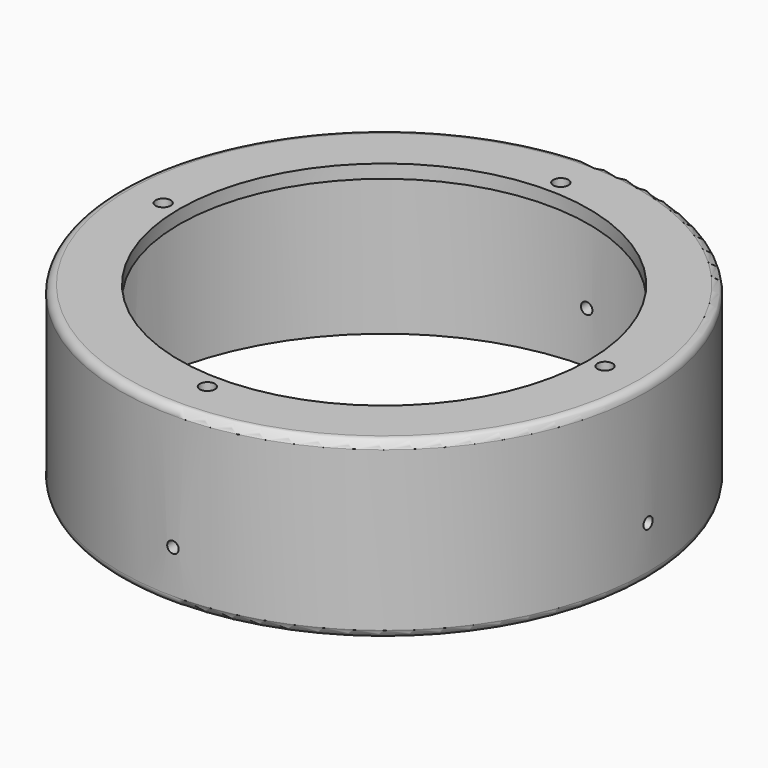
from build123d import *

# Parameters (mm, degrees)
SKETCH044_R       = 2.8
EXTRUDE026_DEPTH  = 20
CYLINDER131_R     = 2.13
CYLINDER131_DEPTH = 300
CYLINDER132_R     = 2.13
CYLINDER132_DEPTH = 300
TUBE004_R         = 98
TUBE004_R_2       = 94
TUBE004_DEPTH     = 65
SKETCH042_R       = 98
SKETCH042_R_2     = 76
EXTRUDE024_DEPTH  = 5
FILLET002_R       = 3


with BuildPart() as m4heatsetvercuts001:
    # Sketch044 → Extrude026 (new body)
    with BuildSketch(Plane.XY):
        with Locations((0, -68)):
            Circle(SKETCH044_R)
        with Locations((82, -150)):
            Circle(SKETCH044_R)
        with Locations((0, -232)):
            Circle(SKETCH044_R)
        with Locations((-82, -150)):
            Circle(SKETCH044_R)
    extrude(amount=EXTRUDE026_DEPTH)


with BuildPart() as m4heatsetvercuts001_1:
    # Extrude026 placement: moved
    add(m4heatsetvercuts001.part.moved(Location((0, 0, -193))))


with BuildPart() as cylinder131:
    # Cylinder131 → Cylinder131 (new body)
    with BuildSketch(Plane(origin=(0, 0, 90), x_dir=(1, 0, 0), z_dir=(0, -1, 0))):
        Circle(CYLINDER131_R)
    extrude(amount=CYLINDER131_DEPTH)


with BuildPart() as m4cuts009:
    # Cylinder132 → Cylinder132 (new body)
    with BuildSketch(Plane(origin=(-150, -150, 90), x_dir=(0, 1, 0), z_dir=(1, 0, 0))):
        Circle(CYLINDER132_R)
    extrude(amount=CYLINDER132_DEPTH)

    # Fusion084: union Cylinder131
    add(cylinder131.part)


with BuildPart() as m4cuts009_1:
    # Fusion084 placement: moved
    add(m4cuts009.part.moved(Location((0, 0, -321))))


with BuildPart() as tube004:
    # Tube004 → Tube004 (new body)
    with BuildSketch(Plane(origin=(0, -150, -125), x_dir=(1, 0, 0), z_dir=(0, 0, 1))):
        Circle(TUBE004_R)
        Circle(TUBE004_R_2, mode=Mode.SUBTRACT)
    extrude(amount=TUBE004_DEPTH)


with BuildPart() as level4to5s:
    # Sketch042 → Extrude024 (new body)
    with BuildSketch(Plane.XY):
        with Locations((0, -150)):
            Circle(SKETCH042_R)
        with Locations((0, -150)):
            Circle(SKETCH042_R_2, mode=Mode.SUBTRACT)
    extrude(amount=EXTRUDE024_DEPTH)


with BuildPart() as level4to5s_1:
    # Extrude024 placement: moved
    add(level4to5s.part.moved(Location((0, 0, -65))))

    # Fusion082: union Tube004
    add(tube004.part)


with BuildPart() as level4to5s_2:
    # Fusion082 placement: moved
    add(level4to5s_1.part.moved(Location((0, 0, -125))))

    # Cut036: cut m4Cuts009
    add(m4cuts009_1.part, mode=Mode.SUBTRACT)

    # Cut038: cut m4HeatSetVerCuts001
    add(m4heatsetvercuts001_1.part, mode=Mode.SUBTRACT)

    # Fillet002
    fillet002_edges = [level4to5s_2.edges().sort_by_distance(p)[0] for p in [
        (-98, -150, -185),
        (-98, -150, -250),
        (-94, -150, -190),
    ]]
    fillet(fillet002_edges, radius=FILLET002_R)


solid = level4to5s_2.part
